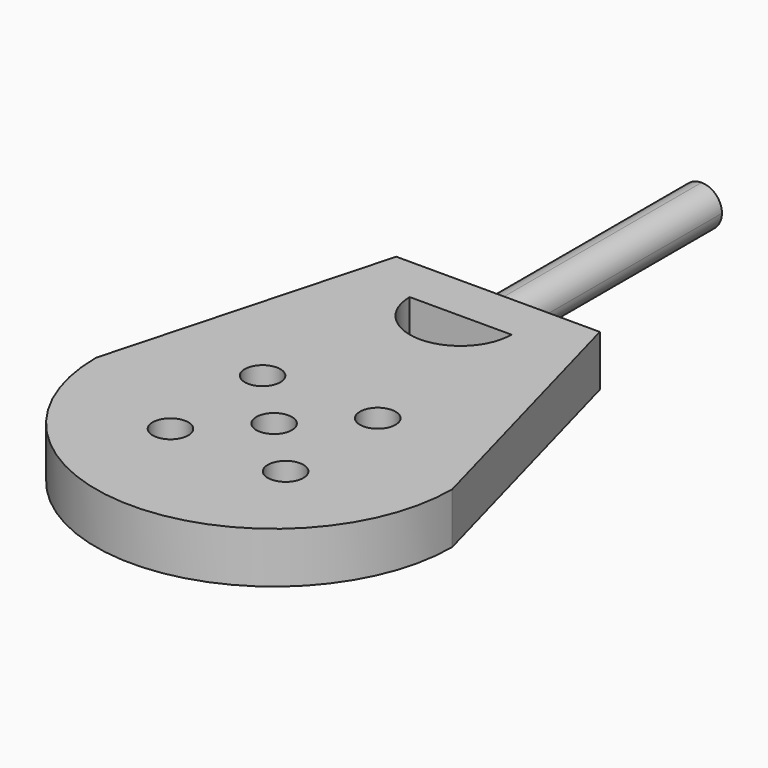
from build123d import *

# Parameters (mm, degrees)
F0_R     = 1.75
F1_DEPTH = 5
F3_DEPTH = 25


with BuildPart() as f1:
    # F0 (on Top) → F1 (new body)
    with BuildSketch(Plane.XY):
        with BuildLine():
            Line((-10, 27.5), (-17.5, 0))
            ThreePointArc((-17.5, 0), (0, -17.5), (17.5, 0))
            Line((17.5, 0), (10, 27.5))
            Line((10, 27.5), (0, 27.5))
            Line((0, 27.5), (-10, 27.5))
        make_face()
        with Locations((-5.656854, -5.656854)):
            Circle(F0_R, mode=Mode.SUBTRACT)
        with Locations((5.656854, -5.656854)):
            Circle(F0_R, mode=Mode.SUBTRACT)
        Circle(F0_R, mode=Mode.SUBTRACT)
        with Locations((-5.656854, 5.656854)):
            Circle(F0_R, mode=Mode.SUBTRACT)
        with Locations((5.656854, 5.656854)):
            Circle(F0_R, mode=Mode.SUBTRACT)
        with BuildLine():
            Line((-5, 22.906581), (0, 22.906581))
            Line((0, 22.906581), (5, 22.906581))
            ThreePointArc((5, 22.906581), (0, 17.906581), (-5, 22.906581))
        make_face(mode=Mode.SUBTRACT)
    extrude(amount=F1_DEPTH)

    # F2 (on face) → F3 (join)
    with BuildSketch(Plane(origin=(0, 27.5, 0), x_dir=(-1, 0, 0), z_dir=(0, 1, 0))):
        with BuildLine():
            ThreePointArc((-2, 2.5), (-1.414214, 1.085786), (0, 0.5))
            Line((0, 0.5), (0, 2.5))
            Line((0, 2.5), (-2, 2.5))
        make_face()
        with BuildLine():
            Line((0, 2.5), (0, 0.5))
            ThreePointArc((0, 0.5), (1.414214, 1.085786), (2, 2.5))
            Line((2, 2.5), (0, 2.5))
        make_face()
        with BuildLine():
            Line((-2, 2.5), (0, 2.5))
            Line((0, 2.5), (0, 4.5))
            ThreePointArc((0, 4.5), (-1.414214, 3.914214), (-2, 2.5))
        make_face()
        with BuildLine():
            Line((0, 4.5), (0, 2.5))
            Line((0, 2.5), (2, 2.5))
            ThreePointArc((2, 2.5), (1.414214, 3.914214), (0, 4.5))
        make_face()
    extrude(amount=F3_DEPTH)


solid = f1.part
